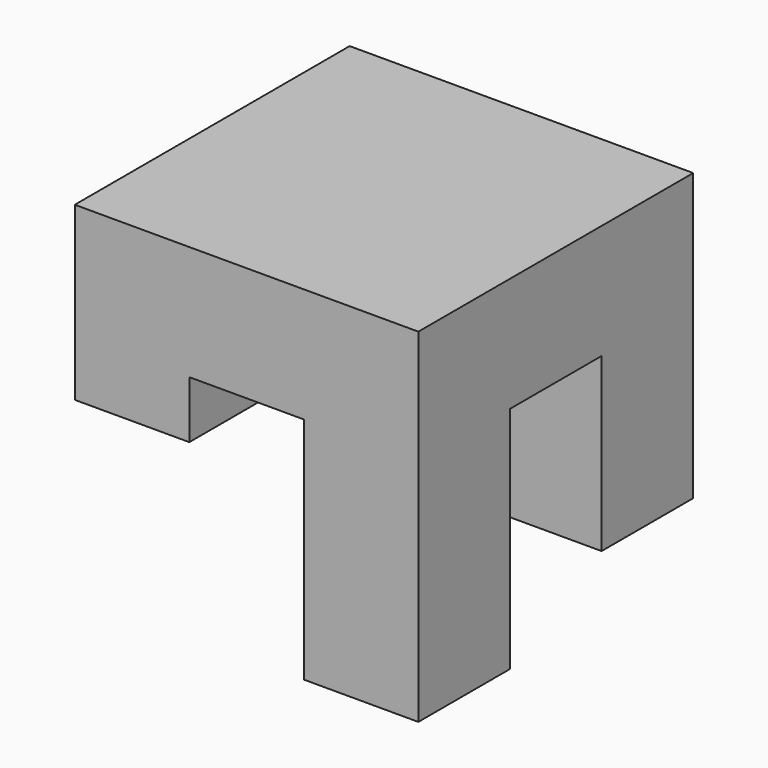
from build123d import *

# Parameters (mm, degrees)
F0_W     = 76.2
F0_H     = 76.2
F1_DEPTH = 25.4
F2_W     = 25.4
F2_H     = 25.4
F3_DEPTH = 25.4
F4_W     = 25.4
F4_H     = 25.4
F5_DEPTH = 12.7
F6_W     = 25.4
F6_H     = 25.4
F7_DEPTH = 50.8
F8_W     = 25.4
F8_H     = 25.4
F9_DEPTH = 38.1


with BuildPart() as f1:
    # F0 (on Top) → F1 (new body)
    with BuildSketch(Plane.XY):
        with Locations((-7.212972, 17.6349)):
            Rectangle(F0_W, F0_H)
    extrude(amount=F1_DEPTH)

    # F2 (on face) → F3 (join)
    with BuildSketch(Plane(origin=(0, 0, 0), x_dir=(1, 0, 0), z_dir=(0, 0, -1))):
        with Locations((-32.612972, -43.0349)):
            Rectangle(F2_W, F2_H)
    extrude(amount=F3_DEPTH)

    # F4 (on face) → F5 (join)
    with BuildSketch(Plane(origin=(0, 0, 0), x_dir=(1, 0, 0), z_dir=(0, 0, -1))):
        with Locations((-32.612972, 7.7651)):
            Rectangle(F4_W, F4_H)
    extrude(amount=F5_DEPTH)

    # F6 (on face) → F7 (join)
    with BuildSketch(Plane(origin=(0, 0, 0), x_dir=(1, 0, 0), z_dir=(0, 0, -1))):
        with Locations((18.187028, 7.7651)):
            Rectangle(F6_W, F6_H)
    extrude(amount=F7_DEPTH)

    # F8 (on face) → F9 (join)
    with BuildSketch(Plane(origin=(0, 0, 0), x_dir=(1, 0, 0), z_dir=(0, 0, -1))):
        with Locations((18.187028, -43.0349)):
            Rectangle(F8_W, F8_H)
    extrude(amount=F9_DEPTH)


solid = f1.part
